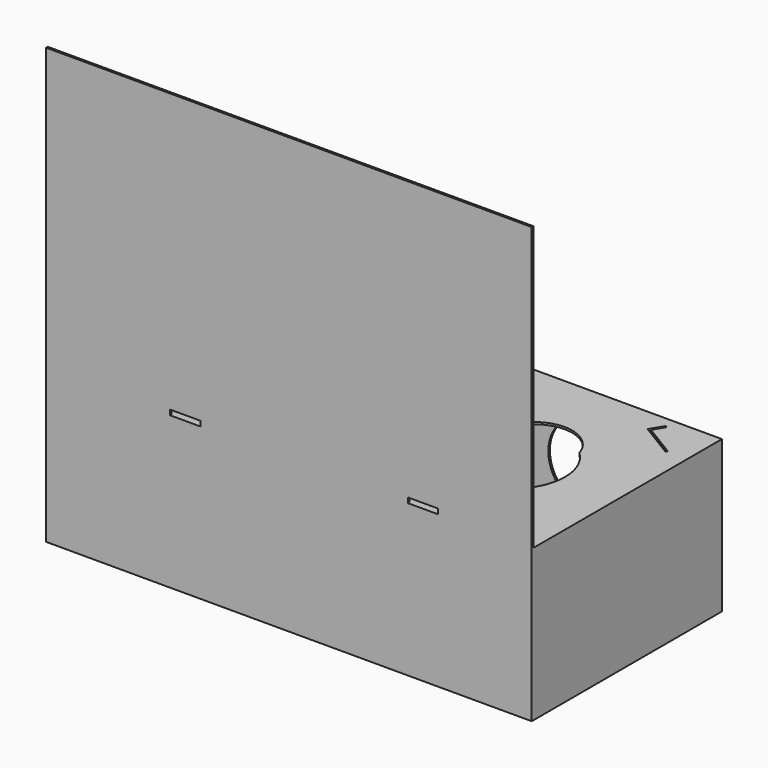
from build123d import *

# Parameters (mm, degrees)
F1_DEPTH = 96
F2_T     = -0.4
F3_W     = 25
F3_H     = 0.4
F4_DEPTH = 0.4
F6_DEPTH = 0.4
F5_W     = 6
F5_H     = 1
F7_DEPTH = 47


with BuildPart() as f1:
    # F0 (on Right) → F1 (new body)
    with BuildSketch(Plane.YZ):
        Polygon((0, 30), (0, 0), (47, 0), (47, 30), (0.4, 30), (0.4, 86), (0, 86), align=None)
    extrude(amount=-F1_DEPTH)

    # F2
    f2_openings = [f1.faces().sort_by_distance(p)[0] for p in [
        (-48, 23.5, 0),
    ]]
    offset(amount=F2_T, openings=f2_openings, kind=Kind.INTERSECTION)

    # F3 (on face) → F4 (cut, through all)
    with BuildSketch(Plane.XY.offset(30)):
        with BuildLine():
            ThreePointArc((-75.6825014059, 14.3409090909), (-68.5, 9), (-61.3174985941, 14.3409090909))
            ThreePointArc((-61.3174985941, 14.3409090909), (-58, 22), (-61.3174985941, 29.6590909091))
            ThreePointArc((-61.3174985941, 29.6590909091), (-68.5, 35), (-75.6825014059, 29.6590909091))
            ThreePointArc((-75.6825014059, 29.6590909091), (-79, 22), (-75.6825014059, 14.3409090909))
        make_face()
        with Locations((-68.5, 6.2)):
            Rectangle(F3_W, F3_H)
        Polygon((-51.2081224133, 38.2756121002), (-51, 38.6172040513), (-57.4902470714, 42.5715299044), (-56.1374513849, 44.7918775867), (-56.479043336, 45), (-58.0399614359, 42.4380603665), align=None)
        with BuildLine():
            ThreePointArc((-14.3174985941, 14.3409090909), (-11, 22), (-14.3174985941, 29.6590909091))
            ThreePointArc((-14.3174985941, 29.6590909091), (-21.5, 35), (-28.6825014059, 29.6590909091))
            ThreePointArc((-28.6825014059, 29.6590909091), (-32, 22), (-28.6825014059, 14.3409090909))
            ThreePointArc((-28.6825014059, 14.3409090909), (-21.5, 9), (-14.3174985941, 14.3409090909))
        make_face()
        with Locations((-21.5, 6.2)):
            Rectangle(F3_W, F3_H)
        Polygon((-11.0399614359, 42.4380603665), (-4.2081224133, 38.2756121002), (-4, 38.6172040513), (-10.4902470714, 42.5715299044), (-9.1374513849, 44.7918775867), (-9.479043336, 45), align=None)
    extrude(amount=-F4_DEPTH, mode=Mode.SUBTRACT)

    # F5 (on face) → F6 (cut, through all)
    with BuildSketch(Plane(origin=(0, 47, 0), x_dir=(-1, 0, 0), z_dir=(0, 1, 0))):
        with BuildLine():
            Line((17, 9), (26, 9))
            ThreePointArc((26, 9), (34, 17), (26, 25))
            Line((26, 25), (17, 25))
            ThreePointArc((17, 25), (9, 17), (17, 9))
        make_face()
        with BuildLine():
            Line((64, 9), (73, 9))
            ThreePointArc((73, 9), (81, 17), (73, 25))
            Line((73, 25), (64, 25))
            ThreePointArc((64, 25), (56, 17), (64, 9))
        make_face()
    extrude(amount=-F6_DEPTH, mode=Mode.SUBTRACT)

    # F5 (on face) → F7 (cut, through all)
    with BuildSketch(Plane(origin=(0, 47, 0), x_dir=(-1, 0, 0), z_dir=(0, 1, 0))):
        with Locations((21.5, 30.5)):
            Rectangle(F5_W, F5_H)
        with Locations((68.5, 30.5)):
            Rectangle(F5_W, F5_H)
    extrude(amount=-F7_DEPTH, mode=Mode.SUBTRACT)


solid = f1.part
